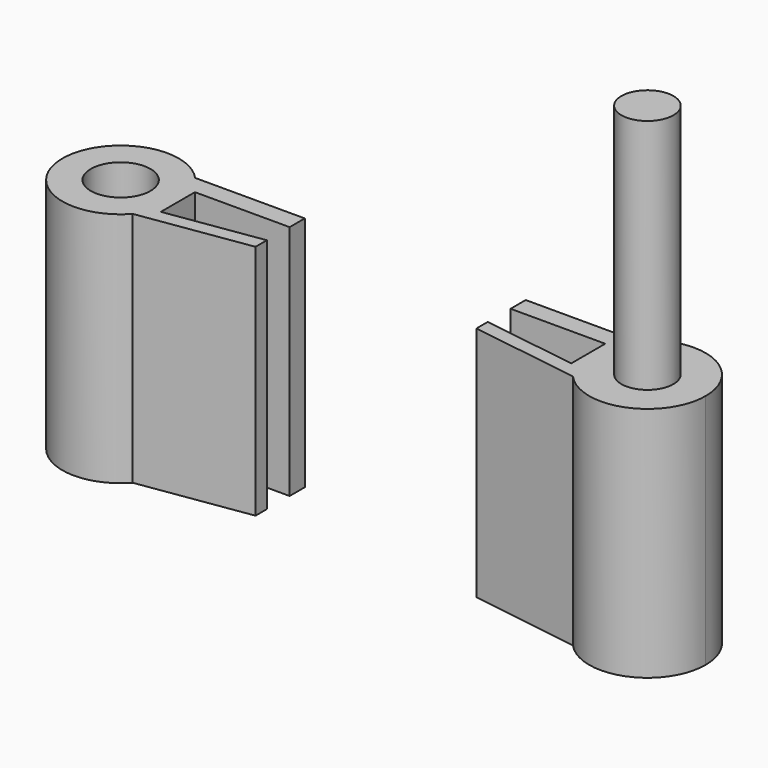
from build123d import *

# Parameters (mm, degrees)
F0_R     = 3.15
F1_DEPTH = 25
F0_R_2   = 2.75
F2_DEPTH = 25
F3_DEPTH = 50


with BuildPart() as f1:
    # F0 (on Top) → F1 (new body)
    with BuildSketch(Plane.XY):
        with BuildLine():
            Line((-10, 0), (0, 0))
            Line((0, 0), (0, 2))
            Line((0, 2), (-11.582869, 2))
            ThreePointArc((-11.582869, 2), (-10.40934, 0.087486), (-10, -2.118715))
            Line((-10, -2.118715), (-10, 0))
        make_face()
        with BuildLine():
            ThreePointArc((-11.582869, -6.23743), (-10.40934, -4.324916), (-10, -2.118715))
            ThreePointArc((-10, -2.118715), (-10.40934, 0.087486), (-11.582869, 2))
            ThreePointArc((-11.582869, 2), (-22.3, -2.118715), (-11.582869, -6.23743))
        make_face()
        with Locations((-16.15, -2.118715)):
            Circle(F0_R, mode=Mode.SUBTRACT)
        with BuildLine():
            Line((-10, -4.5), (-10, -2.118715))
            ThreePointArc((-10, -2.118715), (-10.40934, -4.324916), (-11.582869, -6.23743))
            Line((-11.582869, -6.23743), (0, -4.5))
            Line((0, -4.5), (0, -3))
            Line((0, -3), (-10, -4.5))
        make_face()
    extrude(amount=F1_DEPTH)


with BuildPart() as f2:
    # F0 (on Top) → F2 (new body)
    with BuildSketch(Plane.XY):
        with BuildLine():
            ThreePointArc((45.633649, -2.118715), (41.68985, 3.621945), (34.916518, 2))
            ThreePointArc((34.916518, 2), (33.742989, 0.087486), (33.333649, -2.118715))
            ThreePointArc((33.333649, -2.118715), (33.742989, -4.324916), (34.916518, -6.23743))
            ThreePointArc((34.916518, -6.23743), (41.68985, -7.859375), (45.633649, -2.118715))
        make_face()
        with Locations((39.483649, -2.118715)):
            Circle(F0_R_2, mode=Mode.SUBTRACT)
        with BuildLine():
            Line((23.333649, 2), (23.333649, 0))
            Line((23.333649, 0), (33.333649, 0))
            Line((33.333649, 0), (33.333649, -2.118715))
            ThreePointArc((33.333649, -2.118715), (33.742989, 0.087486), (34.916518, 2))
            Line((34.916518, 2), (23.333649, 2))
        make_face()
        with BuildLine():
            ThreePointArc((34.916518, -6.23743), (33.742989, -4.324916), (33.333649, -2.118715))
            Line((33.333649, -2.118715), (33.333649, -4.5))
            Line((33.333649, -4.5), (23.333649, -3))
            Line((23.333649, -3), (23.333649, -4.5))
            Line((23.333649, -4.5), (34.916518, -6.23743))
        make_face()
    extrude(amount=F2_DEPTH)

    # F0 (on Top) → F3 (join)
    with BuildSketch(Plane.XY):
        with Locations((39.483649, -2.118715)):
            Circle(F0_R_2)
    extrude(amount=F3_DEPTH)


solid = Compound([f1.part, f2.part])
